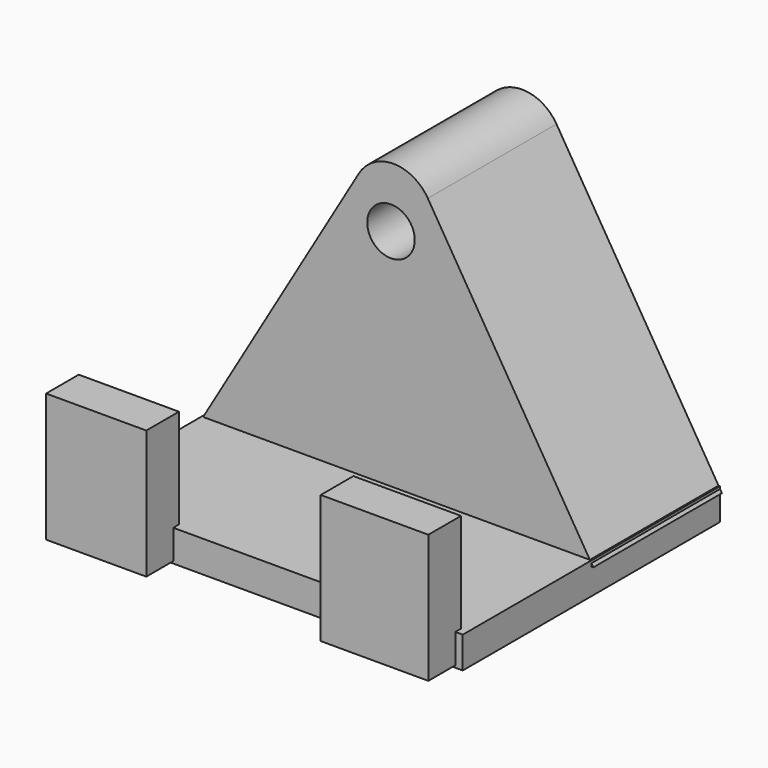
from build123d import *

# Parameters (mm, degrees)
F0_R     = 3.753216
F1_DEPTH = 25.4
F3_DEPTH = 50.8
F4_W     = 15.826155
F4_H     = 6.447691
F4_W_2   = 16.998462
F5_DEPTH = 20.32


with BuildPart() as f1:
    # F0 (on Front) → F1 (new body)
    with BuildSketch(Plane.XZ):
        with BuildLine():
            Line((-8.156309, 26.172908), (-33.264231, -16.558846))
            Line((-33.264231, -16.558846), (28.868075, -16.558846))
            Line((28.868075, -16.558846), (2.739173, 26.263524))
            ThreePointArc((2.739173, 26.263524), (-2.734247, 29.305814), (-8.156309, 26.172908))
        make_face()
        with Locations((-3.077308, 19.782692)):
            Circle(F0_R, mode=Mode.SUBTRACT)
    extrude(amount=F1_DEPTH)

    # F2 (on Front) → F3 (join)
    with BuildSketch(Plane.XZ):
        Polygon((28.574998, -15.679616), (-32.971155, -15.679616), (-32.971155, -20.661924), (-18.911924, -20.661924), (11.673916, -20.661924), (28.574998, -20.661924), align=None)
    extrude(amount=F3_DEPTH)

    # F4 (on Top) → F5 (join)
    with BuildSketch(Plane.XY):
        with Locations((-25.058077, -52.900384)):
            Rectangle(F4_W, F4_H)
        with Locations((18.903461, -52.900384)):
            Rectangle(F4_W_2, F4_H)
    extrude(amount=-F5_DEPTH)


solid = f1.part
